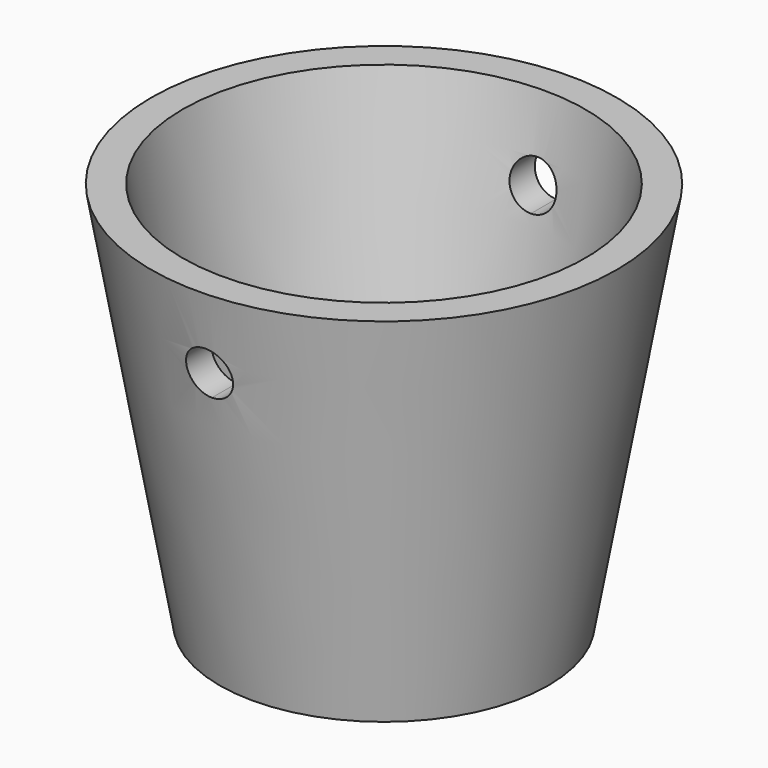
from build123d import *

# Parameters (mm, degrees)
F3_DEPTH = 78.74


with BuildPart() as f1:
    # F0 (on Front) → F1 (revolve)
    with BuildSketch(Plane.XZ):
        with BuildLine():
            Line((0, 54.61), (0, 63.5))
            Line((0, 63.5), (-32.9416328116, 63.5))
            Line((-32.9416328116, 63.5), (-21.7448695366, 0))
            Line((-21.7448695366, 0), (0, 0))
            Line((0, 0), (0, 46.99))
            ThreePointArc((0, 46.99), (-3.81, 50.8), (0, 54.61))
        make_face()
        Polygon((-21.7448695366, 0), (-32.9416328116, 63.5), (-38.1, 63.5), (-26.903236725, 0), align=None)
    revolve(axis=Axis((0, 0, 31.75), (0, 0, 1)))

    # F0 (on Front) → F2 (revolve, cut)
    with BuildSketch(Plane.XZ):
        with BuildLine():
            Line((0, 54.61), (0, 63.5))
            Line((0, 63.5), (-32.9416328116, 63.5))
            Line((-32.9416328116, 63.5), (-21.7448695366, 0))
            Line((-21.7448695366, 0), (0, 0))
            Line((0, 0), (0, 46.99))
            ThreePointArc((0, 46.99), (-3.81, 50.8), (0, 54.61))
        make_face()
    revolve(axis=Axis((0, 0, 31.75), (0, 0, 1)), mode=Mode.SUBTRACT)

    # F0 (on Front) → F3 (cut, symmetric)
    with BuildSketch(Plane.XZ):
        with BuildLine():
            Line((0, 46.99), (0, 54.61))
            ThreePointArc((0, 54.61), (-3.81, 50.8), (0, 46.99))
        make_face()
        with BuildLine():
            ThreePointArc((3.81, 50.8), (2.6940768363, 53.4940768363), (0, 54.61))
            Line((0, 54.61), (0, 46.99))
            ThreePointArc((0, 46.99), (2.6940768363, 48.1059231637), (3.81, 50.8))
        make_face()
    extrude(amount=F3_DEPTH, both=True, mode=Mode.SUBTRACT)


solid = f1.part
